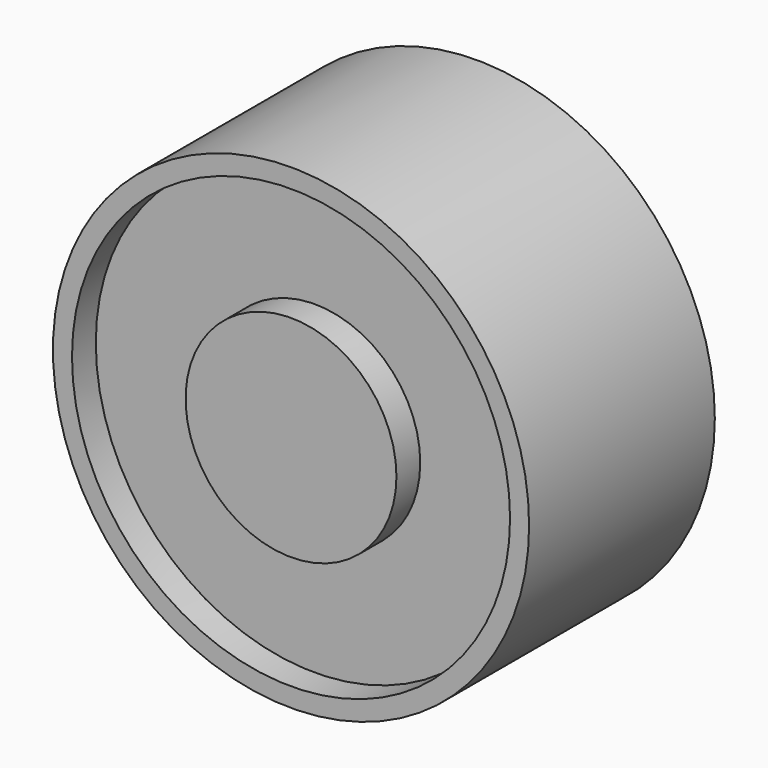
from build123d import *

# Parameters (mm, degrees)
F0_R     = 20.32
F1_DEPTH = 19.812
F2_R     = 18.6937497488
F2_R_2   = 8.9962892538
F3_DEPTH = 2.54
F5_D     = 4.2
F5_DEPTH = 11.925
F5_TIP   = 1.2618073


with BuildPart() as f1:
    # F0 (on Front) → F1 (new body)
    with BuildSketch(Plane.XZ):
        Circle(F0_R)
    extrude(amount=F1_DEPTH)

    # F2 (on face) → F3 (cut)
    with BuildSketch(Plane.XZ.offset(19.812)):
        Circle(F2_R)
        Circle(F2_R_2, mode=Mode.SUBTRACT)
    extrude(amount=-F3_DEPTH, mode=Mode.SUBTRACT)

    # F5
    with Locations(Plane(origin=(0, 0, 0), x_dir=(-1, 0, 0), z_dir=(0, 1, 0))):
        with Locations((0, 0)):
            Hole(F5_D / 2, depth=F5_DEPTH)
            with Locations((0, 0, -(F5_DEPTH + F5_TIP / 2))):  # 118° drill point
                Cone(0, F5_D / 2, F5_TIP, mode=Mode.SUBTRACT)


solid = f1.part
